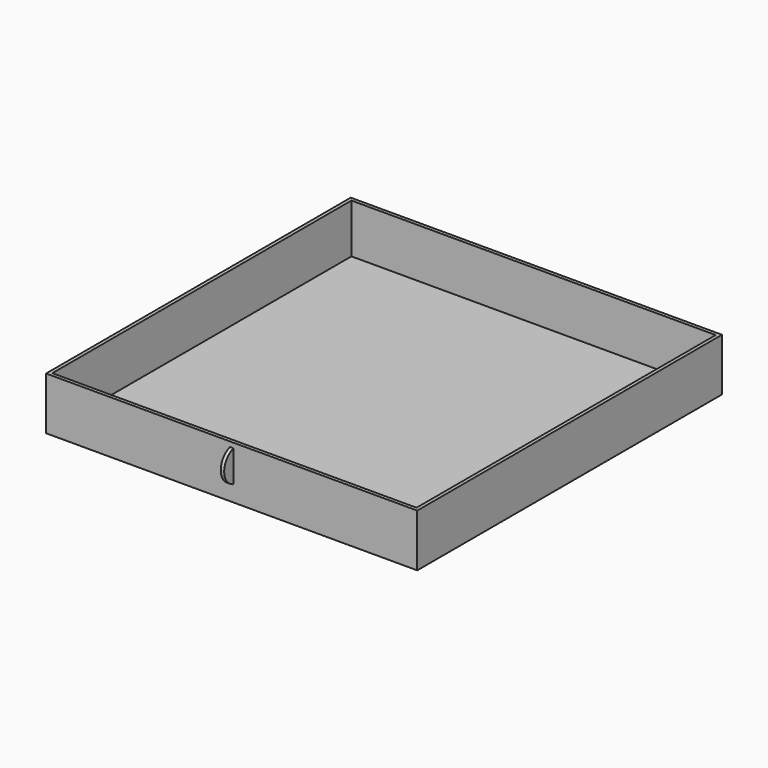
from build123d import *

# Parameters (mm, degrees)
F0_W     = 170.18
F0_H     = 174.625
F1_DEPTH = 1.5875
F2_W     = 170.18
F2_H     = 174.625
F2_W_2   = 167.005
F2_H_2   = 171.45
F3_DEPTH = 22.5425
F5_DEPTH = 0.79375


with BuildPart() as f1:
    # F0 (on Top) → F1 (new body)
    with BuildSketch(Plane.XY):
        Rectangle(F0_W, F0_H)
    extrude(amount=F1_DEPTH)

    # F2 (on face) → F3 (join)
    with BuildSketch(Plane.XY.offset(1.5875)):
        Rectangle(F2_W, F2_H)
        Rectangle(F2_W_2, F2_H_2, mode=Mode.SUBTRACT)
    extrude(amount=F3_DEPTH)

    # F4 (on Right) → F5 (join, symmetric)
    with BuildSketch(Plane.YZ):
        with BuildLine():
            Line((-87.3125, 7.356259), (-87.3125, 21.853741))
            ThreePointArc((-87.3125, 21.853741), (-92.583, 14.605), (-87.3125, 7.356259))
        make_face()
    extrude(amount=F5_DEPTH, both=True)


solid = f1.part
